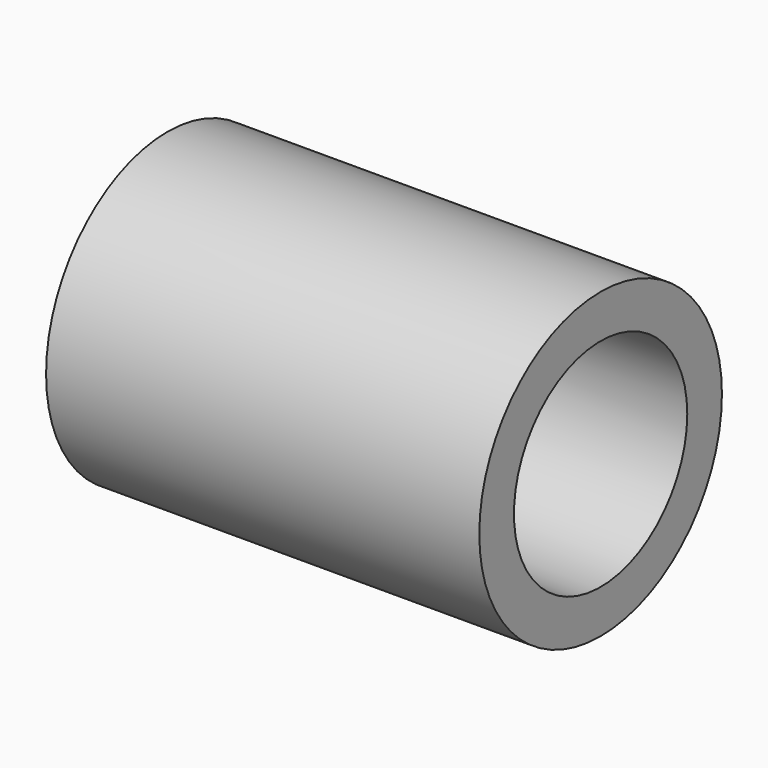
from build123d import *

# Parameters (mm, degrees)
F0_R     = 3.5
F0_R_2   = 2.193938
F1_DEPTH = 10
F2_T     = -1


with BuildPart() as f1:
    # F0 (on Right) → F1 (new body)
    with BuildSketch(Plane.YZ):
        Circle(F0_R)
        Circle(F0_R_2, mode=Mode.SUBTRACT)
        Circle(F0_R_2)
    extrude(amount=F1_DEPTH)

    # F2
    f2_openings = [f1.faces().sort_by_distance(p)[0] for p in [
        (10, 0, 0),
    ]]
    offset(amount=F2_T, openings=f2_openings)


solid = f1.part
